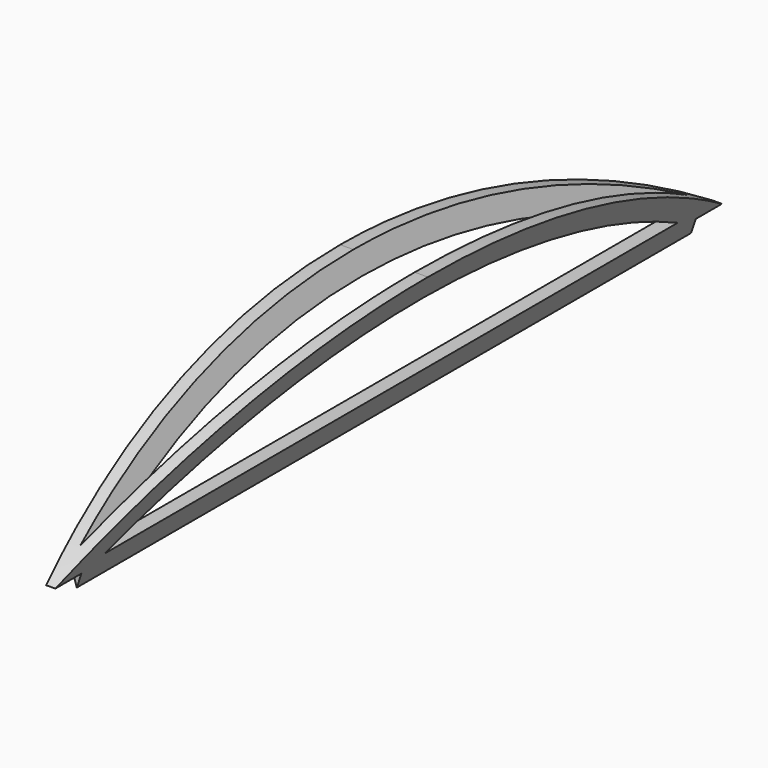
from build123d import *

# Parameters (mm, degrees)
F1_DEPTH = 200
F3_DEPTH = 12.5
F5_DEPTH = 200.001
F7_DEPTH = 12.5
F8_W     = 12.42342
F8_H     = 5.245147
F8_H_2   = 3.165806
F8_H_3   = 8.410953
F9_DEPTH = 12.5


with BuildPart() as f1:
    # F0 (on Front) → F1 (new body)
    with BuildSketch(Plane.XZ):
        Polygon((-10, 30), (0, 0), (10, 30), align=None)
    extrude(amount=F1_DEPTH)

    # F2 (on Right) → F3 (cut, symmetric)
    with BuildSketch(Plane.YZ):
        with BuildLine():
            ThreePointArc((-100, 30), (-47.798467, 22.338442), (0, 0))
            Line((0, 0), (0, 30))
            Line((0, 30), (-100, 30))
        make_face()
        with BuildLine():
            ThreePointArc((-200, 0), (-152.201533, 22.338442), (-100, 30))
            Line((-100, 30), (-200, 30))
            Line((-200, 30), (-200, 0))
        make_face()
    extrude(amount=F3_DEPTH, both=True, mode=Mode.SUBTRACT)

    # F4 (on Front) → F5 (cut, through all)
    with BuildSketch(Plane.XZ):
        Polygon((-7, 30), (0, 8), (7, 30), align=None)
    extrude(amount=F5_DEPTH, mode=Mode.SUBTRACT)

    # F6 (on Right) → F7 (cut, symmetric)
    with BuildSketch(Plane.YZ):
        with BuildLine():
            ThreePointArc((-18.35034, 5), (-100, 25), (-181.64966, 5))
            Line((-181.64966, 5), (-18.35034, 5))
        make_face()
    extrude(amount=F7_DEPTH, both=True, mode=Mode.SUBTRACT)

    # F8 (on Right) → F9 (cut, symmetric)
    with BuildSketch(Plane.YZ):
        with Locations((-6.21171, -2.622573)):
            Rectangle(F8_W, F8_H)
        with Locations((-6.21171, 1.582903)):
            Rectangle(F8_W, F8_H_2)
        with Locations((-193.78829, -1.03967)):
            Rectangle(F8_W, F8_H_3)
    extrude(amount=F9_DEPTH, both=True, mode=Mode.SUBTRACT)


solid = f1.part
